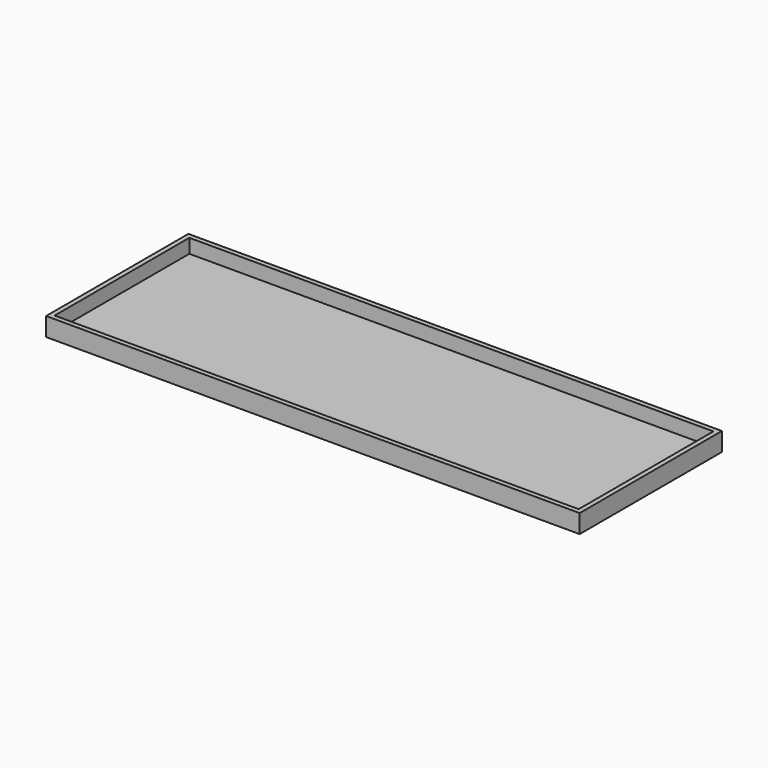
from build123d import *

# Parameters (mm, degrees)
F0_W     = 914.4
F0_H     = 304.8
F1_DEPTH = 7.62
F2_W     = 914.4
F2_H     = 304.8
F2_W_2   = 898.144
F2_H_2   = 288.544
F4_DEPTH = 24.13


with BuildPart() as f1:
    # F0 (on Top) → F1 (new body)
    with BuildSketch(Plane.XY):
        Rectangle(F0_W, F0_H)
    extrude(amount=F1_DEPTH)

    # F2 (on face) → F4 (join, through all)
    with BuildSketch(Plane.XY.offset(7.62)):
        Rectangle(F2_W, F2_H)
        Rectangle(F2_W_2, F2_H_2, mode=Mode.SUBTRACT)
    extrude(amount=F4_DEPTH)


solid = f1.part
